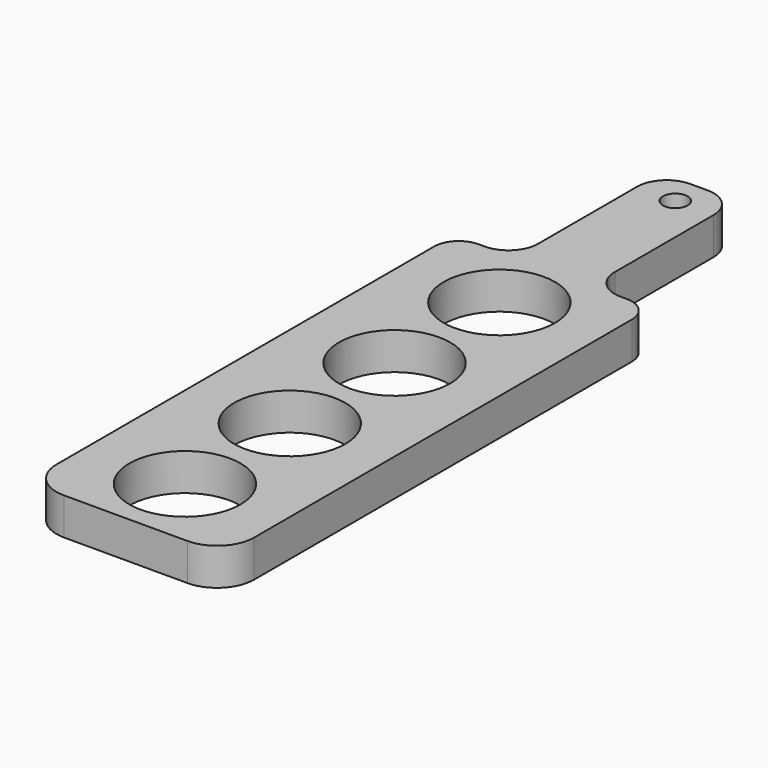
from build123d import *

# Parameters (mm, degrees)
F0_R     = 28.575
F1_DEPTH = 19.05
F2_R     = 6.35
F3_DEPTH = 19.051


with BuildPart() as f1:
    # F0 (on Top) → F1 (new body)
    with BuildSketch(Plane.XY):
        with BuildLine():
            ThreePointArc((-50.8, -165.1), (-45.220384, -178.570384), (-31.75, -184.15))
            Line((-31.75, -184.15), (31.75, -184.15))
            ThreePointArc((31.75, -184.15), (45.220384, -178.570384), (50.8, -165.1))
            Line((50.8, -165.1), (50.8, 77.47))
            ThreePointArc((50.8, 77.47), (47.080256, 86.450256), (38.1, 90.17))
            Line((38.1, 90.17), (34.925337, 90.17))
            ThreePointArc((34.925337, 90.17), (24.14903, 94.633693), (19.685337, 105.41))
            Line((19.685337, 105.41), (19.685337, 168.91))
            ThreePointArc((19.685337, 168.91), (15.221645, 179.686307), (4.445337, 184.15))
            Line((4.445337, 184.15), (-4.445337, 184.15))
            ThreePointArc((-4.445337, 184.15), (-15.221645, 179.686307), (-19.685337, 168.91))
            Line((-19.685337, 168.91), (-19.685337, 105.41))
            ThreePointArc((-19.685337, 105.41), (-24.14903, 94.633693), (-34.925337, 90.17))
            Line((-34.925337, 90.17), (-38.1, 90.17))
            ThreePointArc((-38.1, 90.17), (-47.080256, 86.450256), (-50.8, 77.47))
            Line((-50.8, 77.47), (-50.8, -165.1))
        make_face()
        with Locations((0, -146.05)):
            Circle(F0_R, mode=Mode.SUBTRACT)
        with Locations((0, -78.74)):
            Circle(F0_R, mode=Mode.SUBTRACT)
        with Locations((0, -11.43)):
            Circle(F0_R, mode=Mode.SUBTRACT)
        with Locations((0, 55.88)):
            Circle(F0_R, mode=Mode.SUBTRACT)
    extrude(amount=F1_DEPTH)

    # F2 (on face) → F3 (cut, through all)
    with BuildSketch(Plane.XY.offset(19.05)):
        with Locations((0, 168.91)):
            Circle(F2_R)
    extrude(amount=-F3_DEPTH, mode=Mode.SUBTRACT)


solid = f1.part
